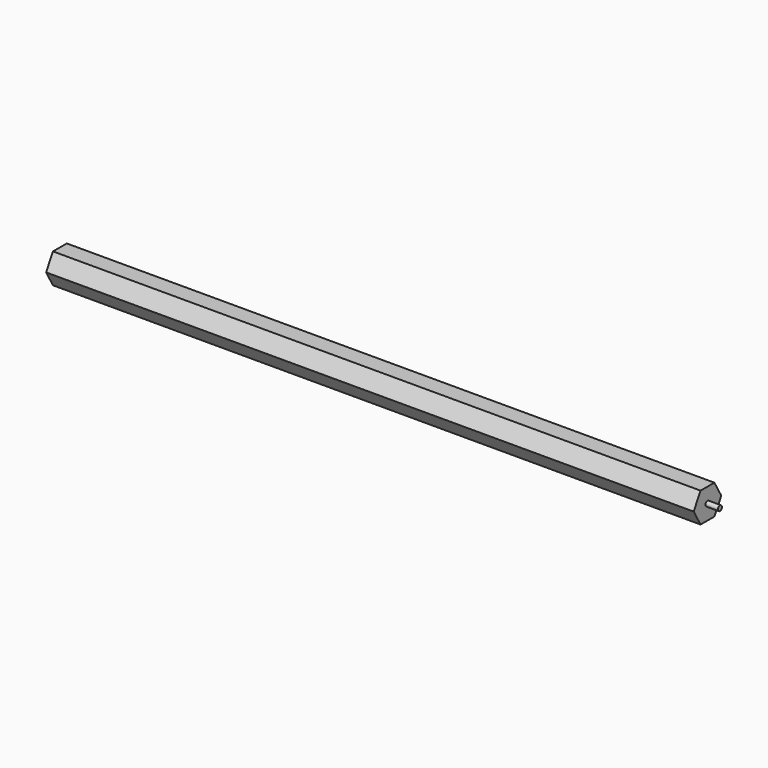
from build123d import *

# Parameters (mm, degrees)
F1_DEPTH = 1300
F2_R     = 5
F3_DEPTH = 25


with BuildPart() as f1:
    # F0 (on Right) → F1 (new body)
    with BuildSketch(Plane.YZ):
        Polygon((-17.320508, -30), (17.320508, -30), (34.641016, 0), (17.320508, 30), (-17.320508, 30), (-34.641016, 0), align=None)
    extrude(amount=F1_DEPTH)

    # F2 (on face) → F3 (join)
    with BuildSketch(Plane.YZ.offset(1300)):
        Circle(F2_R)
    extrude(amount=F3_DEPTH)


solid = f1.part
